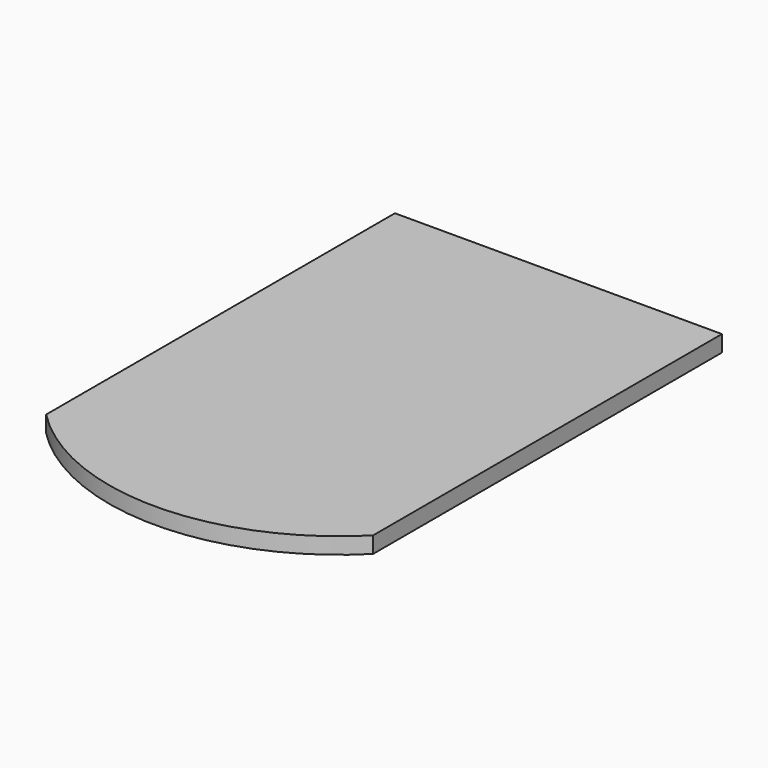
from build123d import *

# Parameters (mm, degrees)
F0_W     = 38.1
F0_H     = 50.8
F1_DEPTH = 1.905


with BuildPart() as f1:
    # F0 (on Top) → F1 (new body)
    with BuildSketch(Plane.XY):
        Rectangle(F0_W, F0_H)
        with BuildLine():
            ThreePointArc((-19.05, -25.4), (0, -33.340169), (19.05, -25.4))
            Line((19.05, -25.4), (-19.05, -25.4))
        make_face()
    extrude(amount=F1_DEPTH)


solid = f1.part
